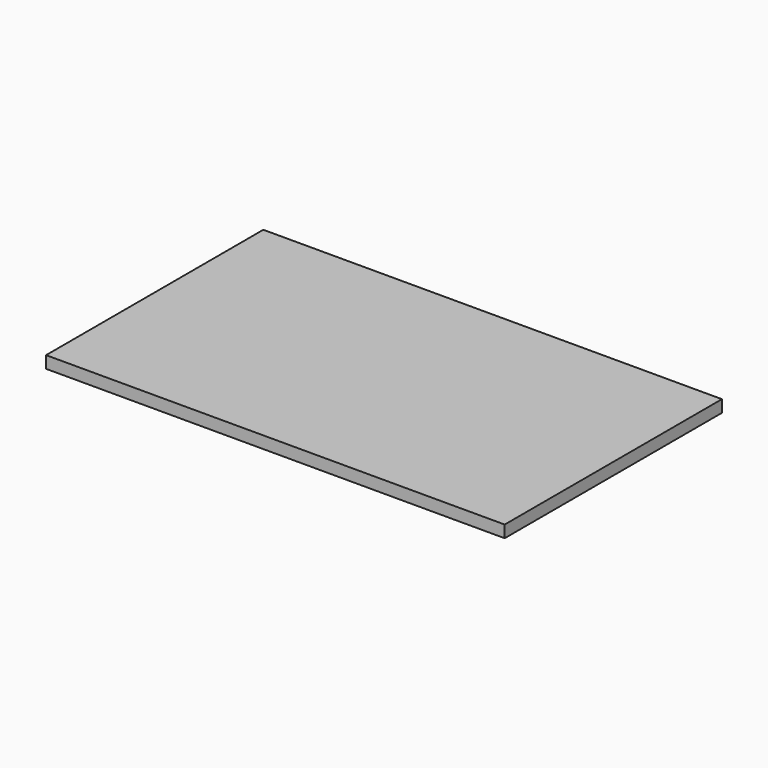
from build123d import *

# Parameters (mm, degrees)
SKETCH_W  = 760
SKETCH_H  = 450
PAD_DEPTH = 20


with BuildPart() as part:
    # Sketch → Pad (new body)
    with BuildSketch(Plane.XY):
        Rectangle(SKETCH_W, SKETCH_H)
    extrude(amount=PAD_DEPTH)


solid = part.part
